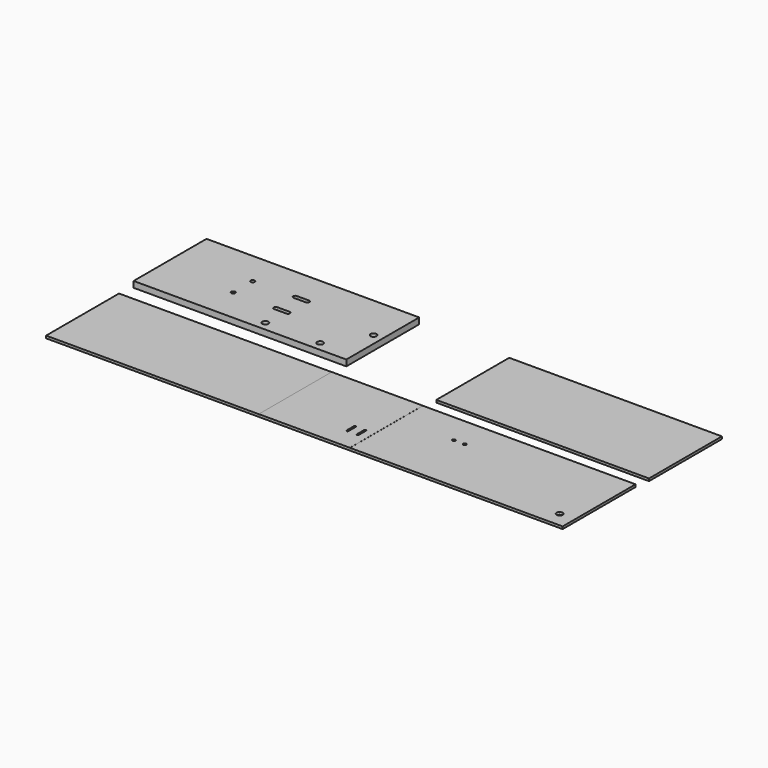
from build123d import *

# Parameters (mm, degrees)
F0_W     = 350
F0_H     = 150
F0_R     = 5
F0_R_2   = 2.5
F1_DEPTH = 4
F0_W_2   = 150
F2_DEPTH = 4.1
F3_W     = 350
F3_H     = 150
F3_R     = 3.3
F3_R_2   = 5
F4_DEPTH = 10
F5_W     = 350
F5_H     = 150
F6_DEPTH = 4


with BuildPart() as f1:
    # F0 (on Top) → F1 (new body)
    with BuildSketch(Plane.XY):
        with Locations((-250, 0)):
            Rectangle(F0_W, F0_H)
        with Locations((250, 0)):
            Rectangle(F0_W, F0_H)
        with Locations((400, -50)):
            Circle(F0_R, mode=Mode.SUBTRACT)
        with Locations((166, 25)):
            Circle(F0_R_2, mode=Mode.SUBTRACT)
        with Locations((184, 25)):
            Circle(F0_R_2, mode=Mode.SUBTRACT)
    extrude(amount=F1_DEPTH)


with BuildPart() as f2:
    # F0 (on Top) → F2 (new body)
    with BuildSketch(Plane.XY):
        Rectangle(F0_W_2, F0_H)
        with BuildLine():
            Line((44.6, -25), (44.6, -40))
            ThreePointArc((44.6, -40), (43, -41.6), (41.4, -40))
            Line((41.4, -40), (41.4, -25))
            ThreePointArc((41.4, -25), (43, -23.4), (44.6, -25))
        make_face(mode=Mode.SUBTRACT)
        with BuildLine():
            Line((61.6, -25), (61.6, -40))
            ThreePointArc((61.6, -40), (60, -41.6), (58.4, -40))
            Line((58.4, -40), (58.4, -25))
            ThreePointArc((58.4, -25), (60, -23.4), (61.6, -25))
        make_face(mode=Mode.SUBTRACT)
    extrude(amount=F2_DEPTH)


with BuildPart() as f4:
    # F3 (on Top) → F4 (new body)
    with BuildSketch(Plane.XY):
        with Locations((-250, 180)):
            Rectangle(F3_W, F3_H)
        with Locations((-305, 160)):
            Circle(F3_R, mode=Mode.SUBTRACT)
        with Locations((-220, 120)):
            Circle(F3_R_2, mode=Mode.SUBTRACT)
        with Locations((-130, 120)):
            Circle(F3_R_2, mode=Mode.SUBTRACT)
        with BuildLine():
            Line((-235, 163.3), (-215, 163.3))
            ThreePointArc((-215, 163.3), (-211.7, 160), (-215, 156.7))
            Line((-215, 156.7), (-235, 156.7))
            ThreePointArc((-235, 156.7), (-238.3, 160), (-235, 163.3))
        make_face(mode=Mode.SUBTRACT)
        with Locations((-305, 200)):
            Circle(F3_R, mode=Mode.SUBTRACT)
        with BuildLine():
            Line((-235, 203.3), (-215, 203.3))
            ThreePointArc((-215, 203.3), (-211.7, 200), (-215, 196.7))
            Line((-215, 196.7), (-235, 196.7))
            ThreePointArc((-235, 196.7), (-238.3, 200), (-235, 203.3))
        make_face(mode=Mode.SUBTRACT)
        with Locations((-90, 180)):
            Circle(F3_R_2, mode=Mode.SUBTRACT)
    extrude(amount=F4_DEPTH)


with BuildPart() as f6:
    # F5 (on Top) → F6 (new body)
    with BuildSketch(Plane.XY):
        with Locations((253.276501, 173.531229)):
            Rectangle(F5_W, F5_H)
    extrude(amount=F6_DEPTH)


solid = Compound([f1.part, f2.part, f4.part, f6.part])
